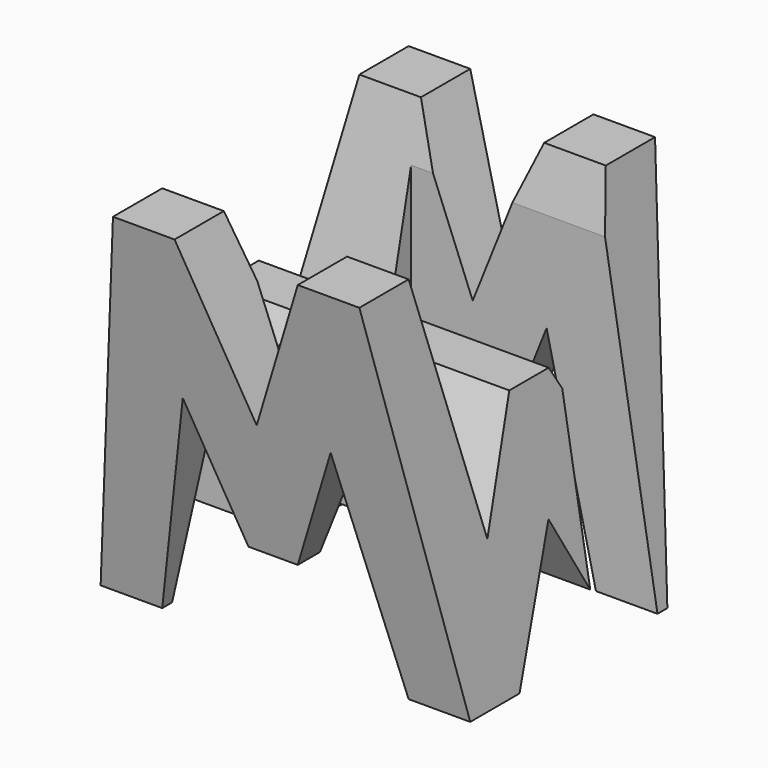
from build123d import *

# Parameters (mm, degrees)
F0_W      = 38.1
F0_H      = 38.1
F1_DEPTH  = 38.1
F6_DEPTH  = 38.1
F8_DEPTH  = 38.1
F9_W      = 25.4
F9_H      = 7.62
F10_DEPTH = 38.1


with BuildPart() as f1:
    # F0 (on Front) → F1 (new body)
    with BuildSketch(Plane.XZ):
        with Locations((19.05, 19.05)):
            Rectangle(F0_W, F0_H)
    extrude(amount=F1_DEPTH)

    # F5 (on offset) → F6 (cut)
    with BuildSketch(Plane.YZ.offset(38.1)):
        Polygon((-11.43, 15.509631), (-6.35, 38.1), (-31.75, 38.1), (-26.67, 13.786338), (-21.59, 24.618464), (-16.51, 24.618464), align=None)
        Polygon((-38.1, 0), (-31.75, 0), (-38.1, 38.1), align=None)
        Polygon((-25.4, 0), (-12.7, 0), (-19.05, 12.555415), align=None)
        Polygon((-6.35, 0), (0, 0), (0, 38.1), align=None)
    extrude(amount=-F6_DEPTH, mode=Mode.SUBTRACT)

    # F7 (on offset) → F8 (cut)
    with BuildSketch(Plane.XZ.offset(38.1)):
        Polygon((0, 38.1), (0, 0), (6.35, 38.1), align=None)
        Polygon((11.43, 22.225), (6.35, 0), (31.75, 0), (26.67, 22.225), (21.59, 9.525), (16.51, 9.525), align=None)
        Polygon((25.4, 38.1), (12.7, 38.1), (19.05, 22.225), align=None)
        Polygon((31.75, 38.1), (38.1, 0), (38.1, 38.1), align=None)
    extrude(amount=-F8_DEPTH, mode=Mode.SUBTRACT)

    # F9 (on offset) → F10 (cut)
    with BuildSketch(Plane.XY.offset(38.1)):
        with Locations((25.4, -11.43)):
            Rectangle(F9_W, F9_H)
        with Locations((12.7, -26.67)):
            Rectangle(F9_W, F9_H)
    extrude(amount=-F10_DEPTH, mode=Mode.SUBTRACT)


solid = f1.part
